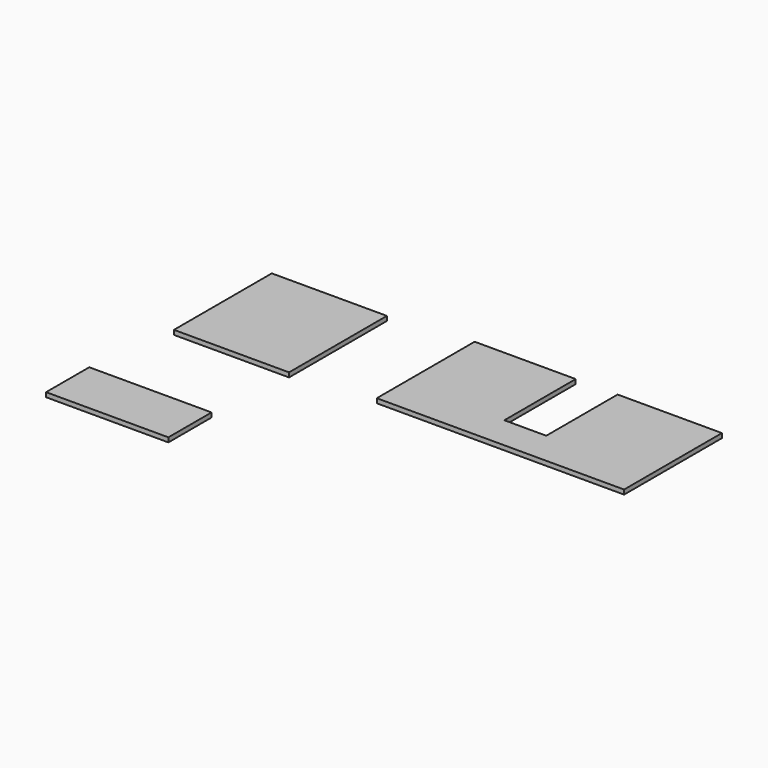
from build123d import *

# Parameters (mm, degrees)
F0_W     = 81.28
F0_H     = 86.36
F1_DEPTH = 3.175
F2_W     = 86.36
F2_H     = 38.1
F3_DEPTH = 3.175
F5_DEPTH = 3.175


with BuildPart() as f1:
    # F0 (on Top) → F1 (new body)
    with BuildSketch(Plane.XY):
        with Locations((-65.938699, 48.003859)):
            Rectangle(F0_W, F0_H)
    extrude(amount=-F1_DEPTH)


with BuildPart() as f3:
    # F2 (on Top) → F3 (new body)
    with BuildSketch(Plane.XY):
        with Locations((-71.960979, -78.288232)):
            Rectangle(F2_W, F2_H)
    extrude(amount=-F3_DEPTH)


with BuildPart() as f5:
    # F4 (on Top) → F5 (new body)
    with BuildSketch(Plane.XY):
        Polygon((103.136617, 97.316596), (31.762617, 97.316596), (31.762617, 10.956596), (206.387617, 10.956596), (206.387617, 97.316596), (132.727617, 97.316596), (132.727617, 34.324596), (103.136617, 34.324596), align=None)
    extrude(amount=-F5_DEPTH)


solid = Compound([f1.part, f3.part, f5.part])
